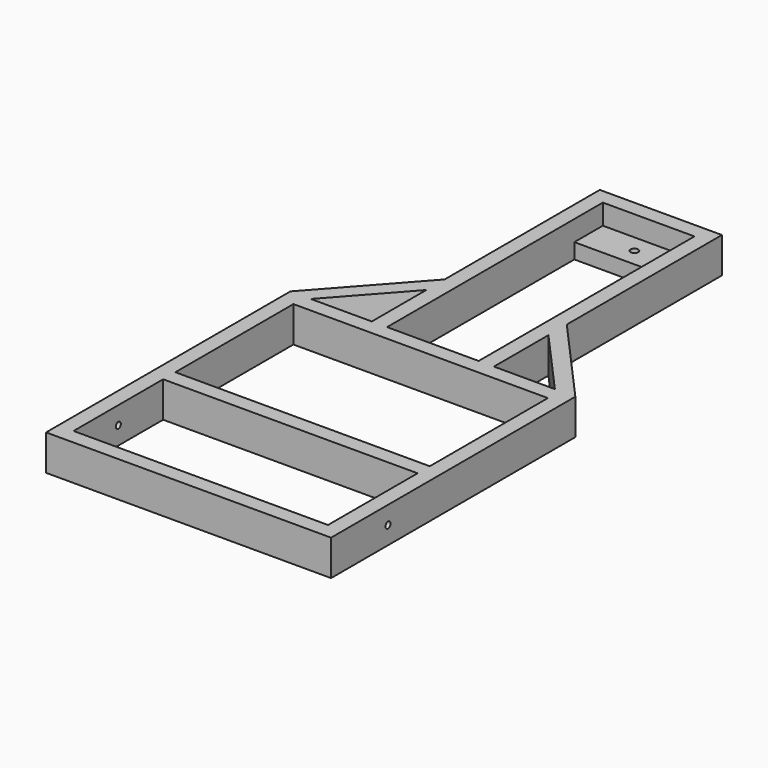
from build123d import *

# Parameters (mm, degrees)
F0_W          = 635
F0_H          = 38.1
F0_W_2        = 38.1
F1_DEPTH      = 88.9
F0_W_3        = 228.6
F0_H_2        = 88.9
F2_DEPTH      = 38.1
F3_R          = 9.525
F4_DEPTH      = 38.101
F5_R          = 7.9375
F6_DEPTH      = 673.101
F6_DEPTH_BACK = 38.101


with BuildPart() as f1:
    # F0 (on Top) → F1 (new body)
    with BuildSketch(Plane.XY):
        Polygon((0, -484.015493486), (0, 0), (-304.8, 0), (-304.8, -484.015493486), (-304.8, -541.165493486), (-304.8, -711.2), (-266.7, -711.2), (-266.7, -127), (-266.7, -38.1), (-38.1, -38.1), (-38.1, -127), (-38.1, -711.2), (0, -711.2), (0, -541.165493486), align=None)
        Polygon((-304.8, -541.165493486), (-304.8, -484.015493486), (-508, -711.2), (-456.8834860344, -711.2), align=None)
        Polygon((203.2, -711.2), (0, -484.015493486), (0, -541.165493486), (152.0834860344, -711.2), align=None)
        Polygon((203.2, -1117.6), (203.2, -711.2), (152.0834860344, -711.2), (0, -711.2), (-38.1, -711.2), (-152.4, -711.2), (-266.7, -711.2), (-304.8, -711.2), (-456.8834860344, -711.2), (-508, -711.2), (-508, -1117.6), (-469.9, -1117.6), (-469.9, -749.3), (165.1, -749.3), (165.1, -1117.6), align=None)
        with Locations((-152.4, -1136.65)):
            Rectangle(F0_W, F0_H)
        with Locations((184.15, -1136.65)):
            Rectangle(F0_W_2, F0_H)
        Polygon((203.2, -1473.2), (203.2, -1155.7), (165.1, -1155.7), (165.1, -1435.1), (-469.9, -1435.1), (-469.9, -1155.7), (-508, -1155.7), (-508, -1473.2), align=None)
        with Locations((-488.95, -1136.65)):
            Rectangle(F0_W_2, F0_H)
    extrude(amount=F1_DEPTH)

    # F0 (on Top) → F2 (join)
    with BuildSketch(Plane.XY):
        with Locations((-152.4, -82.55)):
            Rectangle(F0_W_3, F0_H_2)
    extrude(amount=F2_DEPTH)

    # F3 (on face) → F4 (cut, through all)
    with BuildSketch(Plane.XY.offset(38.1)):
        with Locations((-152.4, -82.55)):
            Circle(F3_R)
    extrude(amount=-F4_DEPTH, mode=Mode.SUBTRACT)

    # F5 (on face) → F6 (cut, two sides)
    with BuildSketch(Plane(origin=(165.1, 0, 0), x_dir=(0, -1, 0), z_dir=(-1, 0, 0))) as f6_sk:
        with Locations((1295.4, 44.45)):
            Circle(F5_R)
    extrude(amount=F6_DEPTH, mode=Mode.SUBTRACT)
    extrude(f6_sk.sketch, amount=-F6_DEPTH_BACK, mode=Mode.SUBTRACT)


solid = f1.part
